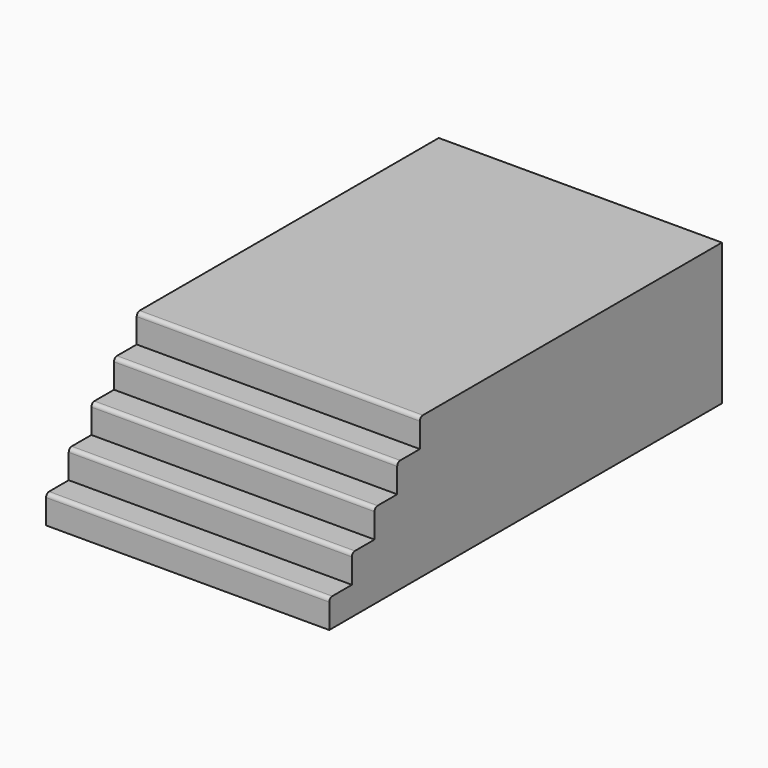
from build123d import *

# Parameters (mm, degrees)
F1_DEPTH = 150
F2_R     = 2


with BuildPart() as f1:
    # F0 (on Right) → F1 (new body)
    with BuildSketch(Plane.YZ):
        Polygon((200, 0), (0, 0), (0, -15), (-15, -15), (-15, -30), (-30, -30), (-30, -45), (-45, -45), (-45, -60), (-60, -60), (-60, -75), (200, -75), align=None)
    extrude(amount=F1_DEPTH)

    # F2
    f2_edges = [f1.edges().sort_by_distance(p)[0] for p in [
        (75, -15, -15),
        (75, 0, 0),
        (75, -30, -30),
        (75, -45, -45),
        (75, -60, -60),
    ]]
    fillet(f2_edges, radius=F2_R)


solid = f1.part
